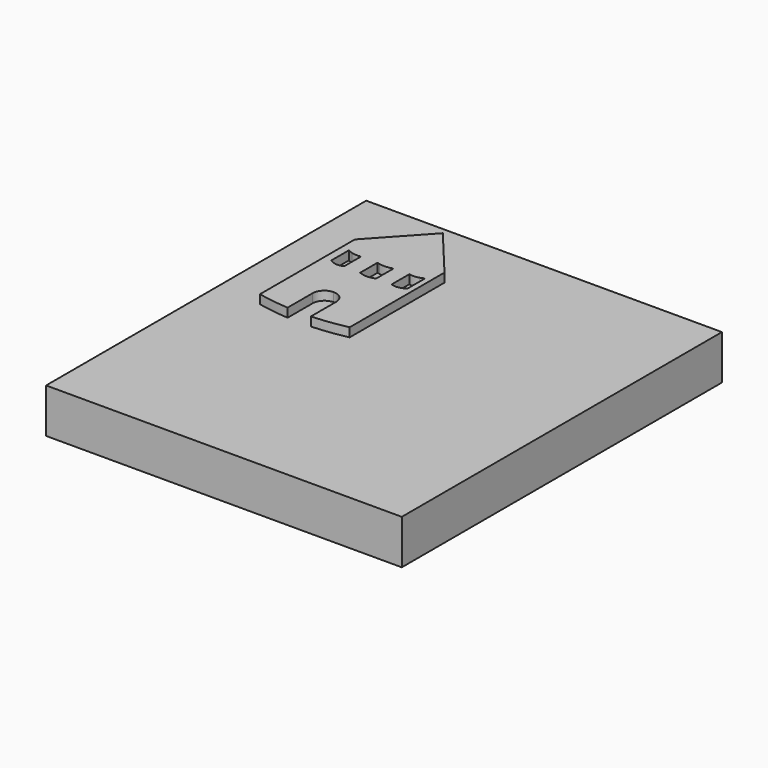
from build123d import *

# Parameters (mm, degrees)
F0_W     = 60
F0_H     = 67.5
F1_DEPTH = 15
F3_DEPTH = 3


with BuildPart() as f1:
    # F0 (on Top) → F1 (new body)
    with BuildSketch(Plane.XY):
        with Locations((-30, 33.75)):
            Rectangle(F0_W, F0_H)
        Polygon((60, 67.5), (0, 67.5), (0, 0), (5.978101, 0), (60, 0), align=None)
        with Locations((-30, -33.75)):
            Rectangle(F0_W, F0_H)
        Polygon((5.978101, 0), (0, 0), (0, -67.5), (60, -67.5), (60, 0), align=None)
    extrude(amount=F1_DEPTH)

    # F2 (on face) → F3 (join)
    with BuildSketch(Plane.XY.offset(15)):
        with BuildLine():
            Line((-44.918586, 43.851971), (-44.918586, 3.851971))
            ThreePointArc((-44.918586, 3.851971), (-39.707078, 2.931428), (-34.442032, 2.396172))
            Line((-34.442032, 2.396172), (-34.442032, 12.946741))
            ThreePointArc((-34.442032, 12.946741), (-33.28199, 15.747329), (-30.481401, 16.907371))
            ThreePointArc((-30.481401, 16.907371), (-27.680812, 15.747329), (-26.520771, 12.946741))
            Line((-26.520771, 12.946741), (-26.520771, 4.093357))
            Line((-26.520771, 4.093357), (-26.520771, 2.320796))
            ThreePointArc((-26.520771, 2.320796), (-20.566627, 2.840362), (-14.676089, 3.851971))
            Line((-14.676089, 3.851971), (-14.676089, 43.851971))
            ThreePointArc((-14.676089, 43.851971), (-29.797337, 42.246202), (-44.918586, 43.851971))
        make_face()
        with BuildLine():
            Line((-31.965651, 29.891772), (-31.965651, 37.240647))
            ThreePointArc((-31.965651, 37.240647), (-31.531806, 37.110883), (-31.091742, 37.004092))
            ThreePointArc((-31.091742, 37.004092), (-28.827804, 36.823467), (-26.595317, 37.240647))
            Line((-26.595317, 37.240647), (-26.595317, 30.761665))
            Line((-26.595317, 30.761665), (-26.595317, 29.891772))
            ThreePointArc((-26.595317, 29.891772), (-29.280484, 29.340507), (-31.965651, 29.891772))
        make_face(mode=Mode.SUBTRACT)
        with BuildLine():
            Line((-42.273805, 30.653939), (-42.273805, 38.012035))
            ThreePointArc((-42.273805, 38.012035), (-41.466251, 37.650164), (-40.623233, 37.381065))
            ThreePointArc((-40.623233, 37.381065), (-39.099799, 37.143175), (-37.559196, 37.206326))
            Line((-37.559196, 37.206326), (-37.559196, 31.443004))
            Line((-37.559196, 31.443004), (-37.559196, 30.192953))
            ThreePointArc((-37.559196, 30.192953), (-39.983961, 29.73351), (-42.273805, 30.653939))
        make_face(mode=Mode.SUBTRACT)
        with BuildLine():
            ThreePointArc((-17.932128, 37.461514), (-17.23958, 37.720125), (-16.58069, 38.055338))
            Line((-16.58069, 38.055338), (-16.58069, 30.658068))
            ThreePointArc((-16.58069, 30.658068), (-18.849183, 29.645199), (-21.321746, 29.88687))
            Line((-21.321746, 29.88687), (-21.321746, 37.332345))
            ThreePointArc((-21.321746, 37.332345), (-19.618405, 37.173049), (-17.932128, 37.461514))
        make_face(mode=Mode.SUBTRACT)
        with BuildLine():
            Line((-29.049899, 61.111096), (-44.918586, 43.851971))
            ThreePointArc((-44.918586, 43.851971), (-29.797337, 42.246202), (-14.676089, 43.851971))
            Line((-14.676089, 43.851971), (-29.049899, 61.111096))
        make_face()
    extrude(amount=F3_DEPTH)


solid = f1.part
